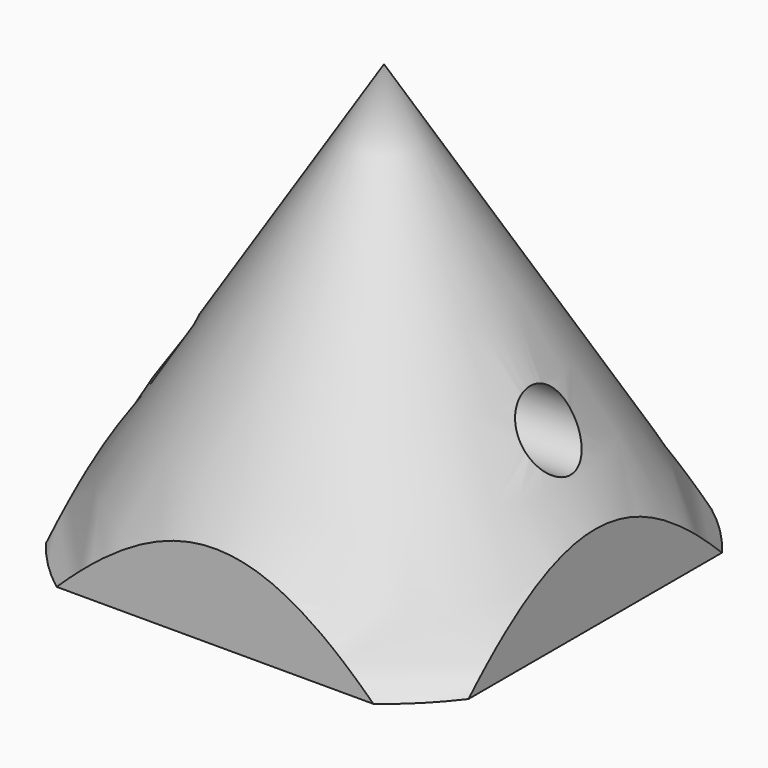
from build123d import *

# Parameters (mm, degrees)
F4_DEPTH = 25.4
F5_R     = 1.567458
F6_DEPTH = 12.7


with BuildPart() as f2:
    # F0 (on Front) → F2 (revolve)
    with BuildSketch(Plane.XZ):
        Polygon((-12.7, 0), (0, 0), (0, 20.487964), align=None)
    revolve(axis=Axis((0, 0, 41.735996), (0, 0, 1)))

    # F3 (on Top) → F4 (cut)
    with BuildSketch(Plane.XY):
        with BuildLine():
            Line((-8.870912, 10.16), (8.870912, 10.16))
            ThreePointArc((8.870912, 10.16), (0, 13.487723), (-8.870912, 10.16))
        make_face()
        with BuildLine():
            ThreePointArc((-8.870912, -10.16), (0, -13.487723), (8.870912, -10.16))
            Line((8.870912, -10.16), (-8.870912, -10.16))
        make_face()
        with BuildLine():
            ThreePointArc((10.16, -8.870912), (13.487723, 0), (10.16, 8.870912))
            Line((10.16, 8.870912), (10.16, -8.870912))
        make_face()
        with BuildLine():
            Line((-10.16, -8.870912), (-10.16, 8.870912))
            ThreePointArc((-10.16, 8.870912), (-13.487723, 0), (-10.16, -8.870912))
        make_face()
    extrude(amount=F4_DEPTH, mode=Mode.SUBTRACT)

    # F5 (on Right) → F6 (cut, symmetric)
    with BuildSketch(Plane.YZ):
        with Locations((0, 7.576898)):
            Circle(F5_R)
    extrude(amount=F6_DEPTH, both=True, mode=Mode.SUBTRACT)


solid = f2.part
